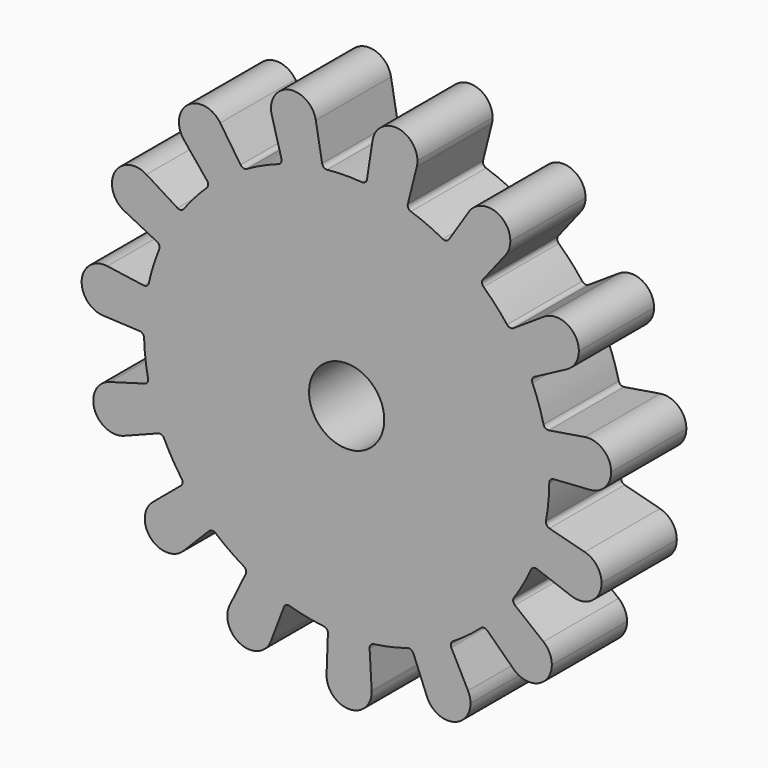
from build123d import *

# Parameters (mm, degrees)
F0_R     = 4
F1_DEPTH = 10


with BuildPart() as f1:
    # F0 (on Front) → F1 (new body)
    with BuildSketch(Plane.XZ):
        with BuildLine():
            ThreePointArc((21.549207, -0.184903), (21.549802, -0.092452), (21.55, 0))
            ThreePointArc((21.55, 0), (21.397, 2.563379), (20.940171, 5.090358))
            ThreePointArc((20.940171, 5.090358), (20.426122, 6.868482), (19.761387, 8.595935))
            ThreePointArc((19.761387, 8.595935), (18.551725, 10.965218), (17.059363, 13.167408))
            ThreePointArc((17.059363, 13.167408), (15.866528, 14.582722), (14.556643, 15.890457))
            ThreePointArc((14.556643, 15.890457), (12.487888, 17.562892), (10.228836, 18.967694))
            ThreePointArc((10.228836, 18.967694), (8.563467, 19.775478), (6.834924, 20.437375))
            ThreePointArc((6.834924, 20.437375), (4.264781, 21.123781), (1.62965, 21.488293))
            ThreePointArc((1.62965, 21.488293), (-0.220295, 21.548874), (-2.068616, 21.450486))
            ThreePointArc((-2.068616, 21.450486), (-4.695744, 21.032177), (-7.251317, 20.293371))
            ThreePointArc((-7.251317, 20.293371), (-8.965966, 19.596274), (-10.614473, 18.754612))
            ThreePointArc((-10.614473, 18.754612), (-12.844333, 17.303919), (-14.878465, 15.589541))
            ThreePointArc((-14.878465, 15.589541), (-16.161341, 14.2553), (-17.324991, 12.815895))
            ThreePointArc((-17.324991, 12.815895), (-18.77202, 10.583656), (-19.932992, 8.190137))
            ThreePointArc((-19.932992, 8.190137), (-20.562272, 6.449455), (-21.039861, 4.661194))
            ThreePointArc((-21.039861, 4.661194), (-21.453854, 2.033382), (-21.540923, -0.625415))
            ThreePointArc((-21.540923, -0.625415), (-21.4078, -2.471559), (-21.116748, -4.29947))
            ThreePointArc((-21.116748, -4.29947), (-20.426122, -6.868482), (-19.424233, -9.332828))
            ThreePointArc((-19.424233, -9.332828), (-18.551725, -10.965218), (-17.542358, -12.516717))
            ThreePointArc((-17.542358, -12.516717), (-15.866528, -14.582722), (-13.948917, -16.42651))
            ThreePointArc((-13.948917, -16.42651), (-12.487888, -17.562892), (-10.934734, -18.569709))
            ThreePointArc((-10.934734, -18.569709), (-8.563467, -19.775478), (-6.061706, -20.679899))
            ThreePointArc((-6.061706, -20.679899), (-4.264781, -21.123781), (-2.436395, -21.41183))
            ThreePointArc((-2.436395, -21.41183), (0.220295, -21.548874), (2.873629, -21.357546))
            ThreePointArc((2.873629, -21.357546), (4.695744, -21.032177), (6.483218, -20.551652))
            ThreePointArc((6.483218, -20.551652), (8.965966, -19.596274), (11.312087, -18.342279))
            ThreePointArc((11.312087, -18.342279), (12.844333, -17.303919), (14.281824, -16.137905))
            ThreePointArc((14.281824, -16.137905), (16.161341, -14.2553), (17.794583, -12.155465))
            ThreePointArc((17.794583, -12.155465), (18.77202, -10.583656), (19.610973, -8.933769))
            ThreePointArc((19.610973, -8.933769), (20.562272, -6.449455), (21.200233, -3.866861))
            ThreePointArc((21.200233, -3.866861), (21.453854, -2.033382), (21.549207, -0.184903))
        make_face()
        Circle(F0_R, mode=Mode.SUBTRACT)
        with BuildLine():
            ThreePointArc((20.940171, 5.090358), (21.397, 2.563379), (21.55, 0))
            ThreePointArc((21.55, 0), (21.549802, -0.092452), (21.549207, -0.184903))
            ThreePointArc((21.549207, -0.184903), (21.685187, 0.153594), (22.014918, 0.309631))
            Line((22.014918, 0.309631), (25.893592, 0.576103))
            ThreePointArc((25.893592, 0.576103), (23.344933, 2.695204), (25.343673, 5.339308))
            Line((25.343673, 5.339308), (21.506318, 4.714954))
            ThreePointArc((21.506318, 4.714954), (21.149705, 4.791752), (20.940171, 5.090358))
        make_face()
        with BuildLine():
            ThreePointArc((17.059363, 13.167408), (18.551725, 10.965218), (19.761387, 8.595935))
            ThreePointArc((19.761387, 8.595935), (19.747931, 8.960475), (19.98569, 9.237136))
            Line((19.98569, 9.237136), (23.420651, 11.058169))
            ThreePointArc((23.420651, 11.058169), (20.230419, 11.957431), (20.980905, 15.185902))
            Line((20.980905, 15.185902), (17.729255, 13.054732))
            ThreePointArc((17.729255, 13.054732), (17.372236, 12.979843), (17.059363, 13.167408))
        make_face()
        with BuildLine():
            ThreePointArc((21.564743, -4.440083), (21.270198, -4.224877), (21.200233, -3.866861))
            ThreePointArc((21.200233, -3.866861), (20.562272, -6.449455), (19.610973, -8.933769))
            ThreePointArc((19.610973, -8.933769), (19.872876, -8.679845), (20.237567, -8.671412))
            Line((20.237567, -8.671412), (23.889295, -10.005577))
            ThreePointArc((23.889295, -10.005577), (22.422895, -7.033048), (25.32429, -5.4305))
            Line((25.32429, -5.4305), (21.564743, -4.440083))
        make_face()
        with BuildLine():
            ThreePointArc((28.129096, 2.970459), (27.283925, 4.798711), (25.343673, 5.339308))
            ThreePointArc((25.343673, 5.339308), (23.344933, 2.695204), (25.893592, 0.576103))
            ThreePointArc((25.893592, 0.576103), (27.483347, 1.332593), (28.129096, 2.970459))
        make_face()
        with BuildLine():
            ThreePointArc((10.228836, 18.967694), (12.487888, 17.562892), (14.556643, 15.890457))
            ThreePointArc((14.556643, 15.890457), (14.396079, 16.218009), (14.500755, 16.567457))
            Line((14.500755, 16.567457), (16.898067, 19.628177))
            ThreePointArc((16.898067, 19.628177), (13.617882, 19.152109), (12.990348, 22.406715))
            Line((12.990348, 22.406715), (10.886642, 19.137229))
            ThreePointArc((10.886642, 19.137229), (10.59095, 18.923602), (10.228836, 18.967694))
        make_face()
        with BuildLine():
            ThreePointArc((20.980905, 15.185902), (20.230419, 11.957431), (23.420651, 11.058169))
            ThreePointArc((23.420651, 11.058169), (24.352952, 11.94127), (24.696504, 13.178615))
            ThreePointArc((24.696504, 13.178615), (23.437241, 15.290183), (20.980905, 15.185902))
        make_face()
        with BuildLine():
            ThreePointArc((17.894429, -12.827389), (17.71288, -12.510986), (17.794583, -12.155465))
            ThreePointArc((17.794583, -12.155465), (16.161341, -14.2553), (14.281824, -16.137905))
            ThreePointArc((14.281824, -16.137905), (14.624365, -16.01246), (14.960957, -16.153089))
            Line((14.960957, -16.153089), (17.754323, -18.857201))
            ThreePointArc((17.754323, -18.857201), (17.623736, -15.545223), (20.926107, -15.261325))
            Line((20.926107, -15.261325), (17.894429, -12.827389))
        make_face()
        with BuildLine():
            ThreePointArc((27.112893, -7.751317), (26.61386, -6.286284), (25.32429, -5.4305))
            ThreePointArc((25.32429, -5.4305), (22.422895, -7.033048), (23.889295, -10.005577))
            ThreePointArc((23.889295, -10.005577), (26.088278, -9.718121), (27.112893, -7.751317))
        make_face()
        with BuildLine():
            ThreePointArc((1.62965, 21.488293), (4.264781, 21.123781), (6.834924, 20.437375))
            ThreePointArc((6.834924, 20.437375), (6.555015, 20.671301), (6.508507, 21.033113))
            Line((6.508507, 21.033113), (7.453654, 24.804295))
            ThreePointArc((7.453654, 24.804295), (4.65069, 23.035214), (2.753642, 25.753203))
            Line((2.753642, 25.753203), (2.16163, 21.910725))
            ThreePointArc((2.16163, 21.910725), (1.978392, 21.595298), (1.62965, 21.488293))
        make_face()
        with BuildLine():
            ThreePointArc((12.990348, 22.406715), (13.617882, 19.152109), (16.898067, 19.628177))
            ThreePointArc((16.898067, 19.628177), (17.277412, 20.325322), (17.408645, 21.108069))
            ThreePointArc((17.408645, 21.108069), (15.685434, 23.410667), (12.990348, 22.406715))
        make_face()
        with BuildLine():
            ThreePointArc((11.130005, -18.996723), (11.092845, -18.633832), (11.312087, -18.342279))
            ThreePointArc((11.312087, -18.342279), (8.965966, -19.596274), (6.483218, -20.551652))
            ThreePointArc((6.483218, -20.551652), (6.847168, -20.576375), (7.097461, -20.84175))
            Line((7.097461, -20.84175), (8.549466, -24.448244))
            ThreePointArc((8.549466, -24.448244), (9.777272, -21.369486), (12.90961, -22.453329))
            Line((12.90961, -22.453329), (11.130005, -18.996723))
        make_face()
        with BuildLine():
            ThreePointArc((21.823606, -17.13282), (21.587631, -16.095034), (20.926107, -15.261325))
            ThreePointArc((20.926107, -15.261325), (17.623736, -15.545223), (17.754323, -18.857201))
            ThreePointArc((17.754323, -18.857201), (20.360014, -19.342603), (21.823606, -17.13282))
        make_face()
        with BuildLine():
            ThreePointArc((-7.251317, 20.293371), (-4.695744, 21.032177), (-2.068616, 21.450486))
            ThreePointArc((-2.068616, 21.450486), (-2.419472, 21.550338), (-2.609121, 21.861953))
            Line((-2.609121, 21.861953), (-3.279564, 25.691525))
            ThreePointArc((-3.279564, 25.691525), (-3.252615, 25.485368), (-3.243609, 25.277652))
            ThreePointArc((-3.243609, 25.277652), (-5.325336, 22.898849), (-7.959194, 24.646728))
            Line((-7.959194, 24.646728), (-6.937147, 20.895657))
            ThreePointArc((-6.937147, 20.895657), (-6.976248, 20.53297), (-7.251317, 20.293371))
        make_face()
        with BuildLine():
            ThreePointArc((2.753642, 25.753203), (4.65069, 23.035214), (7.453654, 24.804295))
            ThreePointArc((7.453654, 24.804295), (7.507586, 25.093808), (7.525654, 25.387747))
            ThreePointArc((7.525654, 25.387747), (5.308917, 27.780739), (2.753642, 25.753203))
        make_face()
        with BuildLine():
            ThreePointArc((2.441102, -21.881351), (2.554756, -21.534719), (2.873629, -21.357546))
            ThreePointArc((2.873629, -21.357546), (0.220295, -21.548874), (-2.436395, -21.41183))
            ThreePointArc((-2.436395, -21.41183), (-2.113967, -21.582448), (-1.99325, -21.926684))
            Line((-1.99325, -21.926684), (-2.133671, -25.811963))
            ThreePointArc((-2.133671, -25.811963), (0.240229, -23.498772), (2.660924, -25.762948))
            Line((2.660924, -25.762948), (2.441102, -21.881351))
        make_face()
        with BuildLine():
            ThreePointArc((13.175802, -23.551902), (13.108305, -22.98672), (12.90961, -22.453329))
            ThreePointArc((12.90961, -22.453329), (9.777272, -21.369486), (8.549466, -24.448244))
            ThreePointArc((8.549466, -24.448244), (11.232307, -25.908086), (13.175802, -23.551902))
        make_face()
        with BuildLine():
            ThreePointArc((-14.878465, 15.589541), (-12.844333, 17.303919), (-10.614473, 18.754612))
            ThreePointArc((-10.614473, 18.754612), (-10.97561, 18.703126), (-11.275608, 18.910663))
            Line((-11.275608, 18.910663), (-13.445715, 22.136457))
            ThreePointArc((-13.445715, 22.136457), (-13.141482, 21.497114), (-13.037041, 20.796821))
            ThreePointArc((-13.037041, 20.796821), (-14.631142, 18.536174), (-17.295814, 19.278611))
            Line((-17.295814, 19.278611), (-14.836429, 16.267541))
            ThreePointArc((-14.836429, 16.267541), (-14.724631, 15.920306), (-14.878465, 15.589541))
        make_face()
        with BuildLine():
            ThreePointArc((-3.243609, 25.277652), (-3.252615, 25.485368), (-3.279564, 25.691525))
            ThreePointArc((-3.279564, 25.691525), (-6.166569, 27.619982), (-7.959194, 24.646728))
            ThreePointArc((-7.959194, 24.646728), (-5.325336, 22.898849), (-3.243609, 25.277652))
        make_face()
        with BuildLine():
            ThreePointArc((-6.669889, -20.982495), (-6.425074, -20.712058), (-6.061706, -20.679899))
            ThreePointArc((-6.061706, -20.679899), (-8.563467, -19.775478), (-10.934734, -18.569709))
            ThreePointArc((-10.934734, -18.569709), (-10.709577, -18.85672), (-10.73931, -19.220294))
            Line((-10.73931, -19.220294), (-12.447877, -22.71256))
            ThreePointArc((-12.447877, -22.71256), (-9.750747, -21.429121), (-7.892055, -23.76728))
            ThreePointArc((-7.892055, -23.76728), (-7.931328, -24.199675), (-8.04786, -24.617919))
            Line((-8.04786, -24.617919), (-6.669889, -20.982495))
        make_face()
        with BuildLine():
            ThreePointArc((2.664763, -25.898647), (2.663803, -25.83077), (2.660924, -25.762948))
            ThreePointArc((2.660924, -25.762948), (0.240229, -23.498772), (-2.133671, -25.811963))
            ThreePointArc((-2.133671, -25.811963), (0.221415, -28.298255), (2.664763, -25.898647))
        make_face()
        with BuildLine():
            ThreePointArc((-19.932992, 8.190137), (-18.77202, 10.583656), (-17.324991, 12.815895))
            ThreePointArc((-17.324991, 12.815895), (-17.633965, 12.621973), (-17.99244, 12.689547))
            Line((-17.99244, 12.689547), (-21.286981, 14.753795))
            ThreePointArc((-21.286981, 14.753795), (-20.461471, 13.882295), (-20.161268, 12.720032))
            ThreePointArc((-20.161268, 12.720032), (-21.302965, 10.67634), (-23.641829, 10.577046))
            Line((-23.641829, 10.577046), (-20.170357, 8.826619))
            ThreePointArc((-20.170357, 8.826619), (-19.926992, 8.554876), (-19.932992, 8.190137))
        make_face()
        with BuildLine():
            ThreePointArc((-13.037041, 20.796821), (-13.141482, 21.497114), (-13.445715, 22.136457))
            ThreePointArc((-13.445715, 22.136457), (-16.8675, 22.72394), (-17.295814, 19.278611))
            ThreePointArc((-17.295814, 19.278611), (-14.631142, 18.536174), (-13.037041, 20.796821))
        make_face()
        with BuildLine():
            ThreePointArc((-14.627597, -16.455574), (-14.29395, -16.308093), (-13.948917, -16.42651))
            ThreePointArc((-13.948917, -16.42651), (-15.866528, -14.582722), (-17.542358, -12.516717))
            ThreePointArc((-17.542358, -12.516717), (-17.453404, -12.870493), (-17.628446, -13.190541))
            Line((-17.628446, -13.190541), (-20.609731, -15.685948))
            ThreePointArc((-20.609731, -15.685948), (-18.053674, -15.351815), (-16.669284, -17.526335))
            ThreePointArc((-16.669284, -17.526335), (-16.850044, -18.440104), (-17.365096, -19.216229))
            Line((-17.365096, -19.216229), (-14.627597, -16.455574))
        make_face()
        with BuildLine():
            ThreePointArc((-12.447877, -22.71256), (-11.245759, -25.969653), (-8.04786, -24.617919))
            ThreePointArc((-8.04786, -24.617919), (-7.931328, -24.199675), (-7.892055, -23.76728))
            ThreePointArc((-7.892055, -23.76728), (-9.750747, -21.429121), (-12.447877, -22.71256))
        make_face()
        with BuildLine():
            ThreePointArc((-21.540923, -0.625415), (-21.453854, 2.033382), (-21.039861, 4.661194))
            ThreePointArc((-21.039861, 4.661194), (-21.243247, 4.358366), (-21.598216, 4.274294))
            Line((-21.598216, 4.274294), (-25.447533, 4.820067))
            ThreePointArc((-25.447533, 4.820067), (-23.972184, 4.01727), (-23.384446, 2.443833))
            ThreePointArc((-23.384446, 2.443833), (-24.128733, 0.706417), (-25.899958, 0.046614))
            Line((-25.899958, 0.046614), (-22.016647, -0.140506))
            ThreePointArc((-22.016647, -0.140506), (-21.683795, -0.289769), (-21.540923, -0.625415))
        make_face()
        with BuildLine():
            ThreePointArc((-20.161268, 12.720032), (-20.461471, 13.882295), (-21.286981, 14.753795))
            ThreePointArc((-21.286981, 14.753795), (-24.651887, 13.898722), (-23.641829, 10.577046))
            ThreePointArc((-23.641829, 10.577046), (-21.302965, 10.67634), (-20.161268, 12.720032))
        make_face()
        with BuildLine():
            ThreePointArc((-20.056059, -9.083336), (-19.691272, -9.084311), (-19.424233, -9.332828))
            ThreePointArc((-19.424233, -9.332828), (-20.426122, -6.868482), (-21.116748, -4.29947))
            ThreePointArc((-21.116748, -4.29947), (-21.179379, -4.658842), (-21.469464, -4.880024))
            Line((-21.469464, -4.880024), (-25.207976, -5.947094))
            ThreePointArc((-25.207976, -5.947094), (-23.103736, -6.339083), (-22.14926, -8.254927))
            ThreePointArc((-22.14926, -8.254927), (-22.568499, -9.610134), (-23.679749, -10.491878))
            Line((-23.679749, -10.491878), (-20.056059, -9.083336))
        make_face()
        with BuildLine():
            ThreePointArc((-20.609731, -15.685948), (-20.836322, -19.150397), (-17.365096, -19.216229))
            ThreePointArc((-17.365096, -19.216229), (-16.850044, -18.440104), (-16.669284, -17.526335))
            ThreePointArc((-16.669284, -17.526335), (-18.053674, -15.351815), (-20.609731, -15.685948))
        make_face()
        with BuildLine():
            ThreePointArc((-23.384446, 2.443833), (-23.972184, 4.01727), (-25.447533, 4.820067))
            ThreePointArc((-25.447533, 4.820067), (-28.173739, 2.670288), (-25.899958, 0.046614))
            ThreePointArc((-25.899958, 0.046614), (-24.128733, 0.706417), (-23.384446, 2.443833))
        make_face()
        with BuildLine():
            ThreePointArc((-25.207976, -5.947094), (-26.824095, -9.019862), (-23.679749, -10.491878))
            ThreePointArc((-23.679749, -10.491878), (-22.568499, -9.610134), (-22.14926, -8.254927))
            ThreePointArc((-22.14926, -8.254927), (-23.103736, -6.339083), (-25.207976, -5.947094))
        make_face()
    extrude(amount=F1_DEPTH)


solid = f1.part
